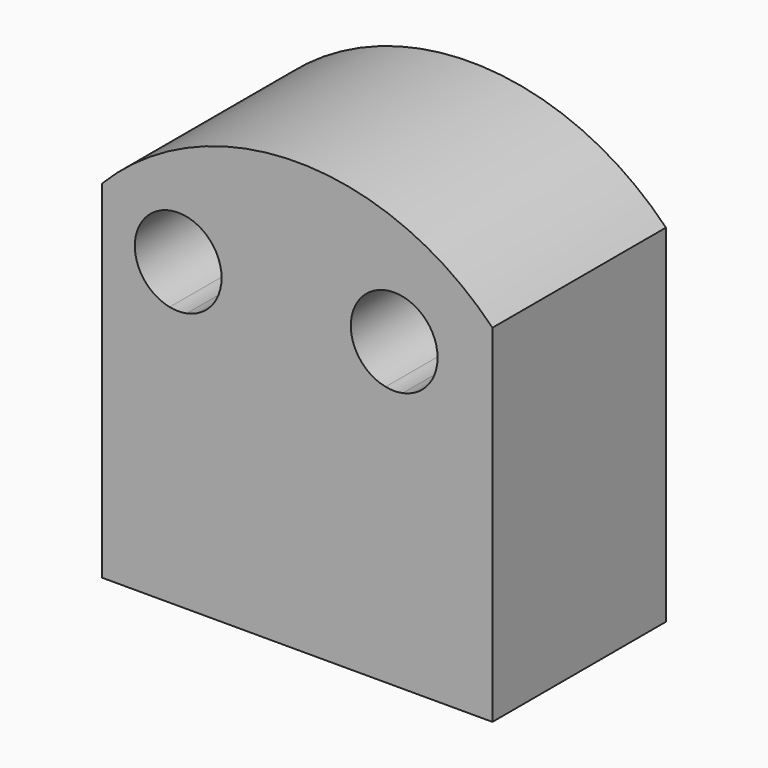
from build123d import *

# Parameters (mm, degrees)
F1_DEPTH = 25


with BuildPart() as f1:
    # F0 (on Front) → F1 (new body)
    with BuildSketch(Plane.XZ):
        with BuildLine():
            ThreePointArc((8.973902, 31.616855), (-13.526053, 41.110471), (-36.026008, 31.616855))
            Line((-36.026008, 31.616855), (8.973902, 31.616855))
        make_face()
        with BuildLine():
            Line((8.973902, 31.616855), (-36.026008, 31.616855))
            Line((-36.026008, 31.616855), (-36.026008, 21.616855))
            Line((-36.026008, 21.616855), (-28.235533, 21.616855))
            ThreePointArc((-28.235533, 21.616855), (-30.414005, 30.387425), (-22.247142, 26.51819))
            ThreePointArc((-22.247142, 26.51819), (-23.377907, 23.351327), (-26.258751, 21.616855))
            Line((-26.258751, 21.616855), (-3.34003, 21.616855))
            ThreePointArc((-3.34003, 21.616855), (-5.518502, 30.387425), (2.648361, 26.51819))
            ThreePointArc((2.648361, 26.51819), (1.517596, 23.351327), (-1.363248, 21.616855))
            Line((-1.363248, 21.616855), (8.973902, 21.616855))
            Line((8.973902, 21.616855), (8.973902, 31.616855))
        make_face()
        with BuildLine():
            Line((-28.235533, 21.616855), (-36.026008, 21.616855))
            Line((-36.026008, 21.616855), (-36.026008, -8.383145))
            Line((-36.026008, -8.383145), (8.973902, -8.383145))
            Line((8.973902, -8.383145), (8.973902, 21.616855))
            Line((8.973902, 21.616855), (-1.363248, 21.616855))
            ThreePointArc((-1.363248, 21.616855), (-2.351639, 21.51819), (-3.34003, 21.616855))
            Line((-3.34003, 21.616855), (-26.258751, 21.616855))
            ThreePointArc((-26.258751, 21.616855), (-27.247142, 21.51819), (-28.235533, 21.616855))
        make_face()
    extrude(amount=F1_DEPTH)


solid = f1.part
